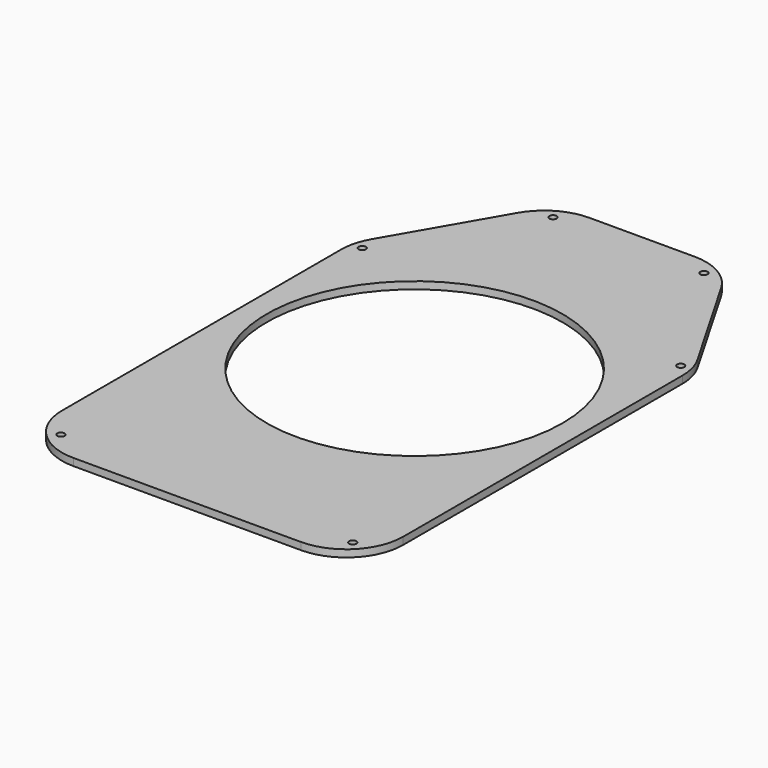
from build123d import *

# Parameters (mm, degrees)
F0_R     = 65
F1_DEPTH = 3.175
F2_R     = 25
F3_R     = 1.5875
F4_DEPTH = 3.176


with BuildPart() as f1:
    # F0 (on Top) → F1 (new body)
    with BuildSketch(Plane.XY):
        Polygon((-75, 60.048095), (-75, -125), (75, -125), (75, 60.048095), (37.5, 125), (-37.5, 125), align=None)
        Circle(F0_R, mode=Mode.SUBTRACT)
    extrude(amount=F1_DEPTH)

    # F2
    f2_edges = [f1.edges().sort_by_distance(p)[0] for p in [
        (-75, -125, 1.5875),
        (75, -125, 1.5875),
        (-37.5, 125, 1.5875),
        (-75, 60.048095, 1.5875),
        (75, 60.048095, 1.5875),
        (37.5, 125, 1.5875),
    ]]
    fillet(f2_edges, radius=F2_R)

    # F3 (on face) → F4 (cut, through all)
    with BuildSketch(Plane.XY.offset(3.175)):
        with Locations((-33.169873, 117.5)):
            Circle(F3_R)
        with Locations((33.169873, 117.5)):
            Circle(F3_R)
        with Locations((70, 58.708349)):
            Circle(F3_R)
        with Locations((-70, 58.708349)):
            Circle(F3_R)
        with Locations((-64.142136, -114.142136)):
            Circle(F3_R)
        with Locations((64.142136, -114.142136)):
            Circle(F3_R)
    extrude(amount=-F4_DEPTH, mode=Mode.SUBTRACT)


solid = f1.part
